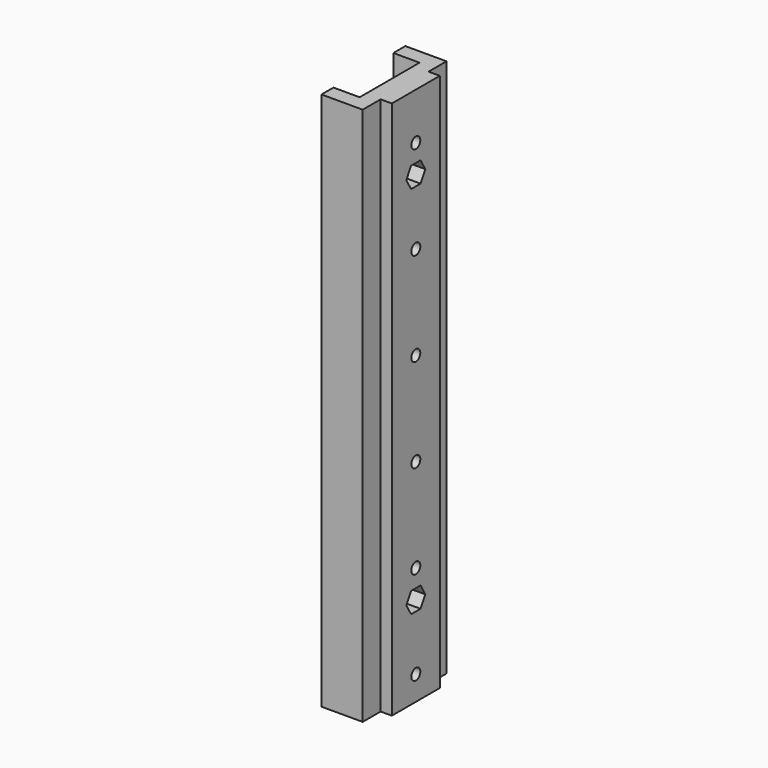
from build123d import *

# Parameters (mm, degrees)
PAD033_DEPTH            = 144
SKETCH060_R             = 1.5
POCKET025_DEPTH         = 7
POCKET026_DEPTH         = 4
SKETCH065_R             = 1.5
POCKET029_DEPTH         = 7
POCKET030_DEPTH         = 5
BODY018_ROLL_ANGLE      = 90
BODY018_PLACEMENT_ANGLE = 180


with BuildPart() as righthigh:
    # Sketch059 → Pad033 (new body)
    with BuildSketch(Plane.XZ):
        Polygon((0, 0), (0, 10), (-7, 10), (-7, 14), (4, 14), (4, 8), (7, 8), (7, -8), (4, -8), (4, -14), (-7, -14), (-7, -10), (0, -10), align=None)
    extrude(amount=PAD033_DEPTH)

    # Sketch060 (on Face6 of Pad033) → Pocket025 (cut)
    with BuildSketch(Plane(origin=(7, 0, 0), x_dir=(0, 0, 1), z_dir=(1, 0, 0))):
        with Locations((0, 120)):
            Circle(SKETCH060_R)
        with Locations((0, 20)):
            Circle(SKETCH060_R)
    extrude(amount=-POCKET025_DEPTH, mode=Mode.SUBTRACT)

    # Sketch061 (on Face12 of Pocket025) → Pocket026 (cut)
    with BuildSketch(Plane(origin=(7, 0, 0), x_dir=(0, 0, 1), z_dir=(1, 0, 0))):
        Polygon((3.176, 20), (1.588, 22.750497), (-1.588, 22.750497), (-3.176, 20), (-1.588, 17.249503), (1.588, 17.249503), align=None)
        Polygon((3.176, 120), (1.588, 122.750497), (-1.588, 122.750497), (-3.176, 120), (-1.588, 117.249503), (1.588, 117.249503), align=None)
    extrude(amount=-POCKET026_DEPTH, mode=Mode.SUBTRACT)

    # Sketch065 (on Face2 of Pocket026) → Pocket029 (cut)
    with BuildSketch(Plane(origin=(0, 0, 0), x_dir=(0, 0, -1), z_dir=(-1, 0, 0))):
        with Locations((0, 12.5)):
            Circle(SKETCH065_R)
        with Locations((0, 37.5)):
            Circle(SKETCH065_R)
        with Locations((0, 62.5)):
            Circle(SKETCH065_R)
        with Locations((0, 87.5)):
            Circle(SKETCH065_R)
        with Locations((0, 112.5)):
            Circle(SKETCH065_R)
        with Locations((0, 137.5)):
            Circle(SKETCH065_R)
    extrude(amount=-POCKET029_DEPTH, mode=Mode.SUBTRACT)

    # Sketch066 → Pocket030 (cut)
    with BuildSketch(Plane(origin=(0, 0, 0), x_dir=(0, 0, -1), z_dir=(-1, 0, 0))):
        Polygon((3.175366, 12.563434), (1.532748, 15.281665), (-1.642619, 15.218231), (-3.175366, 12.436566), (-1.532748, 9.718335), (1.642619, 9.781769), align=None)
        Polygon((3.175984, 37.50994), (1.579384, 40.255453), (-1.5966, 40.245513), (-3.175984, 37.49006), (-1.579384, 34.744547), (1.5966, 34.754487), align=None)
        Polygon((3.176, 62.500829), (1.587282, 65.250911), (-1.588718, 65.250082), (-3.176, 62.499171), (-1.587282, 59.749089), (1.588718, 59.749918), align=None)
        Polygon((3.176, 87.500019), (1.587984, 90.250506), (-1.588016, 90.250487), (-3.176, 87.499981), (-1.587984, 84.749494), (1.588016, 84.749513), align=None)
        Polygon((3.176, 112.5), (1.588, 115.250497), (-1.588, 115.250497), (-3.176, 112.5), (-1.588, 109.749503), (1.588, 109.749503), align=None)
        Polygon((3.176, 137.5), (1.588, 140.250497), (-1.588, 140.250497), (-3.176, 137.5), (-1.588, 134.749503), (1.588, 134.749503), align=None)
    extrude(amount=-POCKET030_DEPTH, mode=Mode.SUBTRACT)


with BuildPart() as righthigh_1:
    # Body018 roll: moved
    add(righthigh.part.rotate(Axis((0, 0, 0), (1, 0, 0)), BODY018_ROLL_ANGLE))


with BuildPart() as righthigh_2:
    # Body018 placement: moved
    add(righthigh_1.part.moved(Location((120, -275.5, 350))).rotate(Axis((120, -275.5, 350), (0, 0, 1)), BODY018_PLACEMENT_ANGLE))


with BuildPart() as lefthigh:
    # Part__Mirroring007: instance of RightHigh
    add(righthigh_2.part.mirror(Plane(origin=(0, 0, 0), x_dir=(0, -1, 0), z_dir=(1, 0, 0))))


solid = lefthigh.part
